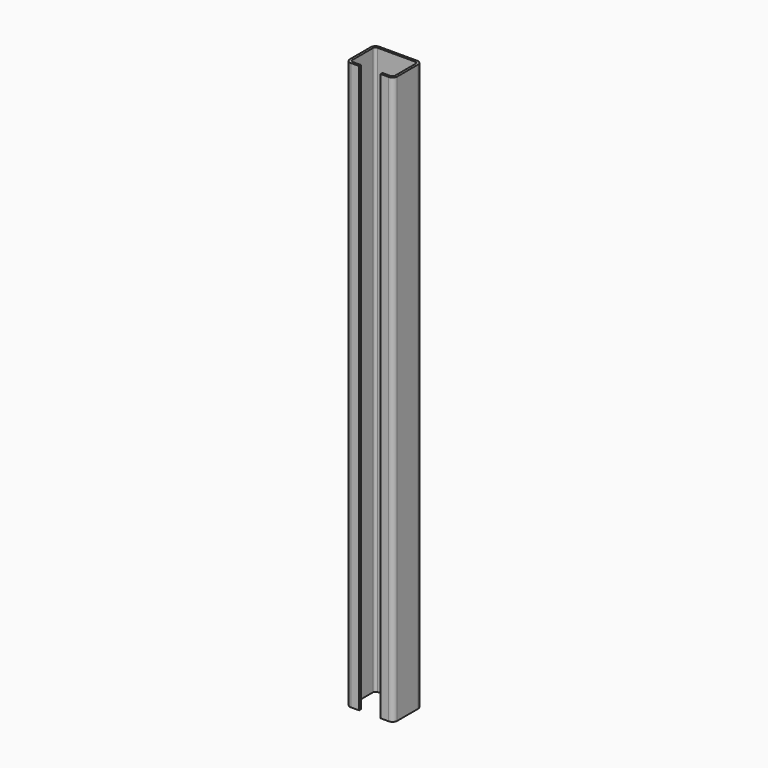
from build123d import *

# Parameters (mm, degrees)
F1_DEPTH = 609.6


with BuildPart() as f1:
    # F0 (on Top) → F1 (new body)
    with BuildSketch(Plane.XY):
        with BuildLine():
            Line((-20.32, -38.1), (-11.514772, -38.1))
            Line((-11.514772, -38.1), (-11.514772, -35.582833))
            Line((-11.514772, -35.582833), (-20.32, -35.582833))
            ThreePointArc((-20.32, -35.582833), (-22.132197, -34.832197), (-22.882833, -33.02))
            Line((-22.882833, -33.02), (-22.882833, -5.08))
            ThreePointArc((-22.882833, -5.08), (-22.132197, -3.267803), (-20.32, -2.517167))
            Line((-20.32, -2.517167), (20.32, -2.517167))
            ThreePointArc((20.32, -2.517167), (22.132197, -3.267803), (22.882833, -5.08))
            Line((22.882833, -5.08), (22.882833, -33.02))
            ThreePointArc((22.882833, -33.02), (22.132197, -34.832197), (20.32, -35.582833))
            Line((20.32, -35.582833), (11.514772, -35.582833))
            Line((11.514772, -35.582833), (11.514772, -38.1))
            Line((11.514772, -38.1), (20.32, -38.1))
            ThreePointArc((20.32, -38.1), (23.912102, -36.612102), (25.4, -33.02))
            Line((25.4, -33.02), (25.4, -5.08))
            ThreePointArc((25.4, -5.08), (23.912102, -1.487898), (20.32, 0))
            Line((20.32, 0), (-20.32, 0))
            ThreePointArc((-20.32, 0), (-23.912102, -1.487898), (-25.4, -5.08))
            Line((-25.4, -5.08), (-25.4, -33.02))
            ThreePointArc((-25.4, -33.02), (-23.912102, -36.612102), (-20.32, -38.1))
        make_face()
    extrude(amount=F1_DEPTH)


solid = f1.part
